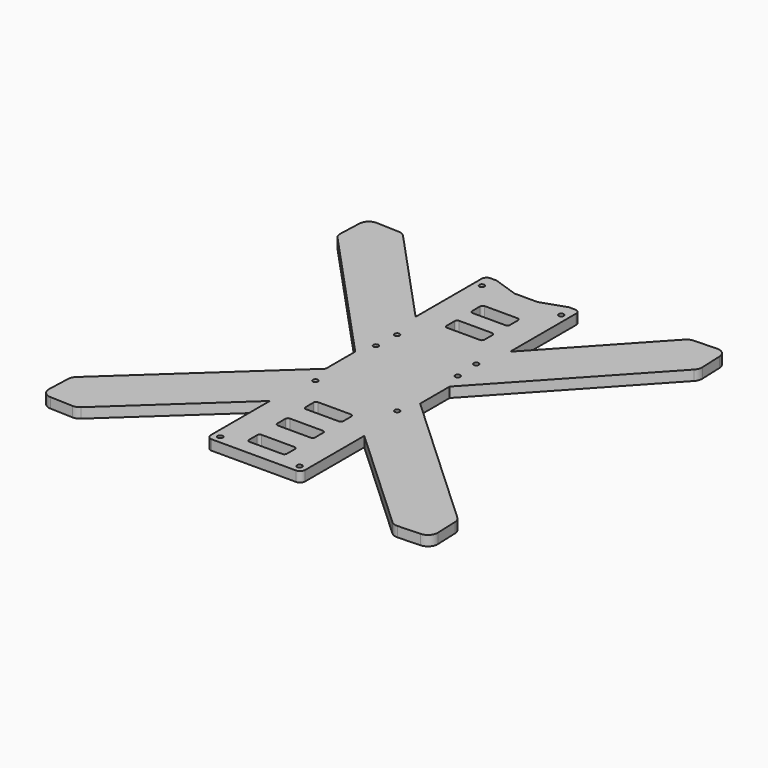
from build123d import *

# Parameters (mm, degrees)
F0_R     = 1
F1_DEPTH = 4


with BuildPart() as f1:
    # F0 (on Top) → F1 (new body)
    with BuildSketch(Plane.XY):
        with BuildLine():
            ThreePointArc((-16.7198, 64.620168), (-18.134014, 64.034382), (-18.7198, 62.620168))
            Line((-18.7198, 62.620168), (-18.7198, 29.936337))
            Line((-18.7198, 29.936337), (-55.794644, 70.026107))
            ThreePointArc((-55.794644, 70.026107), (-56.99751, 70.899639), (-58.443099, 71.246361))
            Line((-58.443099, 71.246361), (-67.416509, 71.596964))
            ThreePointArc((-67.416509, 71.596964), (-70.152099, 70.587073), (-71.372352, 67.938617))
            Line((-71.372352, 67.938617), (-71.722956, 58.965208))
            ThreePointArc((-71.722956, 58.965208), (-71.490081, 57.496973), (-70.713064, 56.229618))
            Line((-70.713064, 56.229618), (-18.7198, 0.008261))
            Line((-18.7198, 0.008261), (-18.7198, -14.626099))
            Line((-18.7198, -14.626099), (-75.507393, -67.143016))
            ThreePointArc((-75.507393, -67.143016), (-76.380925, -68.345882), (-76.727646, -69.791472))
            Line((-76.727646, -69.791472), (-77.078249, -78.764881))
            ThreePointArc((-77.078249, -78.764881), (-76.068358, -81.500471), (-73.419902, -82.720725))
            Line((-73.419902, -82.720725), (-64.446493, -83.071328))
            ThreePointArc((-64.446493, -83.071328), (-62.978258, -82.838454), (-61.710903, -82.061437))
            Line((-61.710903, -82.061437), (-18.7198, -42.303453))
            Line((-18.7198, -42.303453), (-18.7198, -71.62687))
            ThreePointArc((-18.7198, -71.62687), (-18.134014, -73.041084), (-16.7198, -73.62687))
            Line((-16.7198, -73.62687), (0, -73.62687))
            Line((0, -73.62687), (16.7198, -73.62687))
            ThreePointArc((16.7198, -73.62687), (18.134014, -73.041084), (18.7198, -71.62687))
            Line((18.7198, -71.62687), (18.7198, -42.303453))
            Line((18.7198, -42.303453), (61.710903, -82.061437))
            ThreePointArc((61.710903, -82.061437), (62.978258, -82.838454), (64.446493, -83.071328))
            Line((64.446493, -83.071328), (73.419902, -82.720725))
            ThreePointArc((73.419902, -82.720725), (76.068358, -81.500471), (77.078249, -78.764881))
            Line((77.078249, -78.764881), (76.727646, -69.791472))
            ThreePointArc((76.727646, -69.791472), (76.380925, -68.345882), (75.507393, -67.143016))
            Line((75.507393, -67.143016), (18.7198, -14.626099))
            Line((18.7198, -14.626099), (18.7198, 0.008261))
            Line((18.7198, 0.008261), (70.713064, 56.229618))
            ThreePointArc((70.713064, 56.229618), (71.490081, 57.496973), (71.722956, 58.965208))
            Line((71.722956, 58.965208), (71.372352, 67.938617))
            ThreePointArc((71.372352, 67.938617), (70.152099, 70.587073), (67.416509, 71.596964))
            Line((67.416509, 71.596964), (58.443099, 71.246361))
            ThreePointArc((58.443099, 71.246361), (56.99751, 70.899639), (55.794644, 70.026107))
            Line((55.794644, 70.026107), (18.7198, 29.936337))
            Line((18.7198, 29.936337), (18.7198, 62.620168))
            ThreePointArc((18.7198, 62.620168), (18.134014, 64.034382), (16.7198, 64.620168))
            Line((16.7198, 64.620168), (14.7254, 64.620168))
            ThreePointArc((14.7254, 64.620168), (14.399241, 64.593394), (14.081814, 64.513788))
            Line((14.081814, 64.513788), (4.877257, 61.385427))
            ThreePointArc((4.877257, 61.385427), (4.55983, 61.305821), (4.23367, 61.279047))
            Line((4.23367, 61.279047), (0, 61.279047))
            Line((0, 61.279047), (-4.23367, 61.279047))
            ThreePointArc((-4.23367, 61.279047), (-4.55983, 61.305821), (-4.877257, 61.385427))
            Line((-4.877257, 61.385427), (-14.081814, 64.513788))
            ThreePointArc((-14.081814, 64.513788), (-14.399241, 64.593394), (-14.7254, 64.620168))
            Line((-14.7254, 64.620168), (-16.7198, 64.620168))
        make_face()
        with Locations((-15.7198, -70.62687)):
            Circle(F0_R, mode=Mode.SUBTRACT)
        with Locations((-16.2198, -22.879832)):
            Circle(F0_R, mode=Mode.SUBTRACT)
        with BuildLine():
            Line((6.5, -67.62687), (0, -67.62687))
            Line((0, -67.62687), (-6.5, -67.62687))
            ThreePointArc((-6.5, -67.62687), (-7.207107, -67.333977), (-7.5, -66.62687))
            Line((-7.5, -66.62687), (-7.5, -62.63247))
            ThreePointArc((-7.5, -62.63247), (-7.207107, -61.925364), (-6.5, -61.63247))
            Line((-6.5, -61.63247), (0, -61.63247))
            Line((0, -61.63247), (6.5, -61.63247))
            ThreePointArc((6.5, -61.63247), (7.207107, -61.925364), (7.5, -62.63247))
            Line((7.5, -62.63247), (7.5, -66.62687))
            ThreePointArc((7.5, -66.62687), (7.207107, -67.333977), (6.5, -67.62687))
        make_face(mode=Mode.SUBTRACT)
        with Locations((15.7198, -70.62687)):
            Circle(F0_R, mode=Mode.SUBTRACT)
        with BuildLine():
            Line((6.493, -53.61877), (0, -53.61877))
            Line((0, -53.61877), (-6.493, -53.61877))
            ThreePointArc((-6.493, -53.61877), (-7.200107, -53.325877), (-7.493, -52.61877))
            Line((-7.493, -52.61877), (-7.493, -48.62437))
            ThreePointArc((-7.493, -48.62437), (-7.200107, -47.917264), (-6.493, -47.62437))
            Line((-6.493, -47.62437), (0, -47.62437))
            Line((0, -47.62437), (6.493, -47.62437))
            ThreePointArc((6.493, -47.62437), (7.200107, -47.917264), (7.493, -48.62437))
            Line((7.493, -48.62437), (7.493, -52.61877))
            ThreePointArc((7.493, -52.61877), (7.200107, -53.325877), (6.493, -53.61877))
        make_face(mode=Mode.SUBTRACT)
        with BuildLine():
            Line((6.493, -39.62687), (0, -39.62687))
            Line((0, -39.62687), (-6.493, -39.62687))
            ThreePointArc((-6.493, -39.62687), (-7.200107, -39.333977), (-7.493, -38.62687))
            Line((-7.493, -38.62687), (-7.493, -34.63247))
            ThreePointArc((-7.493, -34.63247), (-7.200107, -33.925364), (-6.493, -33.63247))
            Line((-6.493, -33.63247), (0, -33.63247))
            Line((0, -33.63247), (6.493, -33.63247))
            ThreePointArc((6.493, -33.63247), (7.200107, -33.925364), (7.493, -34.63247))
            Line((7.493, -34.63247), (7.493, -38.62687))
            ThreePointArc((7.493, -38.62687), (7.200107, -39.333977), (6.493, -39.62687))
        make_face(mode=Mode.SUBTRACT)
        with Locations((16.2198, -22.879832)):
            Circle(F0_R, mode=Mode.SUBTRACT)
        with Locations((-16.2198, 7.120168)):
            Circle(F0_R, mode=Mode.SUBTRACT)
        with Locations((-15.7226, 16.995168)):
            Circle(F0_R, mode=Mode.SUBTRACT)
        with Locations((-15.7226, 59.057568)):
            Circle(F0_R, mode=Mode.SUBTRACT)
        with Locations((16.2198, 7.120168)):
            Circle(F0_R, mode=Mode.SUBTRACT)
        with Locations((15.7226, 16.995168)):
            Circle(F0_R, mode=Mode.SUBTRACT)
        with BuildLine():
            Line((-6.5, 36.279047), (0, 36.279047))
            Line((0, 36.279047), (6.5, 36.279047))
            ThreePointArc((6.5, 36.279047), (7.207107, 35.986154), (7.5, 35.279047))
            Line((7.5, 35.279047), (7.5, 31.279047))
            ThreePointArc((7.5, 31.279047), (7.207107, 30.57194), (6.5, 30.279047))
            Line((6.5, 30.279047), (0, 30.279047))
            Line((0, 30.279047), (-6.5, 30.279047))
            ThreePointArc((-6.5, 30.279047), (-7.207107, 30.57194), (-7.5, 31.279047))
            Line((-7.5, 31.279047), (-7.5, 35.279047))
            ThreePointArc((-7.5, 35.279047), (-7.207107, 35.986154), (-6.5, 36.279047))
        make_face(mode=Mode.SUBTRACT)
        with BuildLine():
            Line((6.5, 42.914193), (-6.5, 42.914193))
            ThreePointArc((-6.5, 42.914193), (-7.207107, 43.207086), (-7.5, 43.914193))
            Line((-7.5, 43.914193), (-7.5, 47.908593))
            ThreePointArc((-7.5, 47.908593), (-7.207107, 48.6157), (-6.5, 48.908593))
            Line((-6.5, 48.908593), (6.5, 48.908593))
            ThreePointArc((6.5, 48.908593), (7.207107, 48.6157), (7.5, 47.908593))
            Line((7.5, 47.908593), (7.5, 43.914193))
            ThreePointArc((7.5, 43.914193), (7.207107, 43.207086), (6.5, 42.914193))
        make_face(mode=Mode.SUBTRACT)
        with Locations((15.7226, 59.057568)):
            Circle(F0_R, mode=Mode.SUBTRACT)
    extrude(amount=F1_DEPTH)


solid = f1.part
